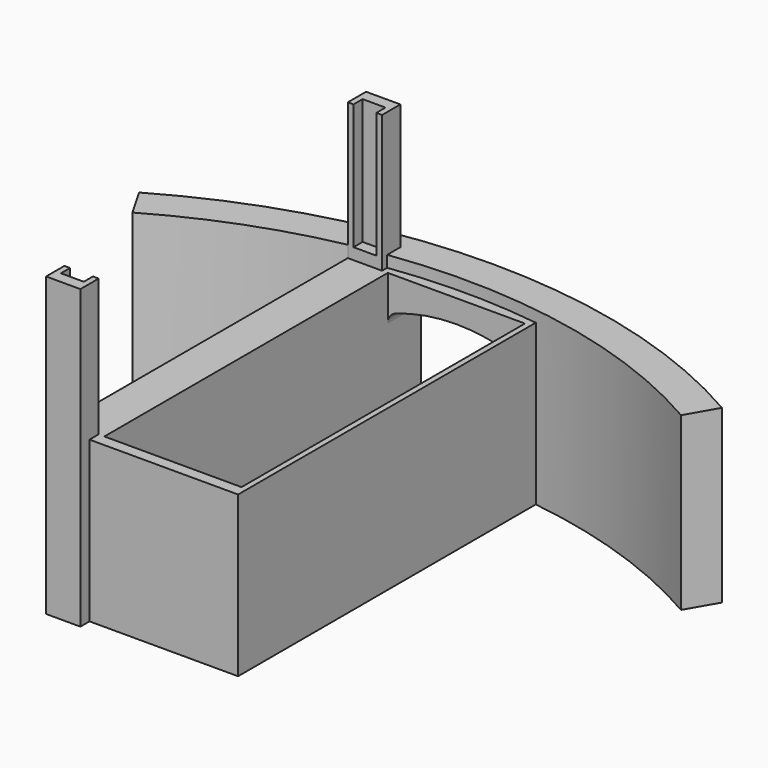
from build123d import *

# Parameters (mm, degrees)
BOX004_W                    = 3
BOX004_H                    = 31
BOX004_DEPTH                = 14
BOX003_W                    = 2
BOX003_H                    = 33
BOX003_DEPTH                = 11.2
BOX002_W                    = 3
BOX002_H                    = 35
BOX002_DEPTH                = 26
EXTRUDE_DEPTH               = 5
EXTRUDE001_DEPTH            = 5
THICKNESS_T                 = 1
BOX_W                       = 12
BOX_H                       = 31
BOX_DEPTH                   = 15
BOX001_W                    = 13
BOX001_H                    = 34
BOX001_DEPTH                = 14
CYLINDER001_W               = 48
CYLINDER001_H               = 15
CYLINDER001_ANGLE           = 60
CYLINDER001_PLACEMENT_ANGLE = 60
CYLINDER_W                  = 51
CYLINDER_H                  = 15
CYLINDER_ANGLE              = 60
CYLINDER_PLACEMENT_ANGLE    = 60


with BuildPart() as slot_wall_cutout2:
    # Box004 → Box004 (new body)
    with BuildSketch(Plane(origin=(-1, 7, 14), x_dir=(1, 0, 0), z_dir=(0, 0, 1))):
        with Locations((1.5, 15.5)):
            Rectangle(BOX004_W, BOX004_H)
    extrude(amount=BOX004_DEPTH)


with BuildPart() as slot_wall_cutout1:
    # Box003 → Box003 (new body)
    with BuildSketch(Plane(origin=(-0.5, 6, 15), x_dir=(1, 0, 0), z_dir=(0, 0, 1))):
        with Locations((1, 16.5)):
            Rectangle(BOX003_W, BOX003_H)
    extrude(amount=BOX003_DEPTH)


with BuildPart() as wall_slot_finished:
    # Box002 → Box002 (new body)
    with BuildSketch(Plane(origin=(-1, 5, 0), x_dir=(1, 0, 0), z_dir=(0, 0, 1))):
        with Locations((1.5, 17.5)):
            Rectangle(BOX002_W, BOX002_H)
    extrude(amount=BOX002_DEPTH)

    # Cut003: cut slot wall cutout1
    add(slot_wall_cutout1.part, mode=Mode.SUBTRACT)

    # Cut004: cut slot wall cutout2
    add(slot_wall_cutout2.part, mode=Mode.SUBTRACT)


with BuildPart() as extrude_body:
    with BuildSketch(Plane(origin=(8.5, 45, 6), x_dir=(1, 0, 0), z_dir=(0, 1, 0))):
        with BuildLine():
            Line((5, 4), (-5, 4))
            Line((-5, 4), (-5, -3.142136))
            ThreePointArc((-5, -3.142136), (-2.53653, -3.783978), (0, -4))
            ThreePointArc((0, -4), (2.53653, -3.783978), (5, -3.142136))
            Line((5, -3.142136), (5, 4))
        make_face()
    extrude(amount=EXTRUDE_DEPTH)


with BuildPart() as extrude001:
    with BuildSketch(Plane(origin=(8.5, 45, 6), x_dir=(1, 0, 0), z_dir=(0, 1, 0))):
        with BuildLine():
            Line((5, 4), (-5, 4))
            Line((-5, 4), (-5, -3.142136))
            ThreePointArc((-5, -3.142136), (-2.53653, -3.783978), (0, -4))
            ThreePointArc((0, -4), (2.53653, -3.783978), (5, -3.142136))
            Line((5, -3.142136), (5, 4))
        make_face()
    extrude(amount=EXTRUDE001_DEPTH)


with BuildPart() as bolt_bottle_side_opening:
    # Thickness base: copy of Extrude body
    add(extrude_body.part)

    # Thickness
    thickness_openings = [bolt_bottle_side_opening.faces().sort_by_distance(p)[0] for p in [
        (8.5, 50, 5.862901),
    ]]
    offset(amount=THICKNESS_T, openings=thickness_openings)

    # Fusion: union Extrude body, Extrude001
    add(extrude_body.part)
    add(extrude001.part)


with BuildPart() as bolt_bottle_side_opening_1:
    # Fusion placement: moved
    add(bolt_bottle_side_opening.part.moved(Location((0, -7, 1))))


with BuildPart() as pullbay:
    # Box → Box (new body)
    with BuildSketch(Plane(origin=(2.5, 7, 2), x_dir=(1, 0, 0), z_dir=(0, 0, 1))):
        with Locations((6, 15.5)):
            Rectangle(BOX_W, BOX_H)
    extrude(amount=BOX_DEPTH)


with BuildPart() as cut_bay_from_case:
    # Box001 → Box001 (new body)
    with BuildSketch(Plane(origin=(2, 6, 0), x_dir=(1, 0, 0), z_dir=(0, 0, 1))):
        with Locations((6.5, 17)):
            Rectangle(BOX001_W, BOX001_H)
    extrude(amount=BOX001_DEPTH)

    # Cut001: cut pullBay
    add(pullbay.part, mode=Mode.SUBTRACT)


with BuildPart() as bottle_wall001:
    # Cylinder001 → Cylinder001 (revolve)
    with BuildSketch(Plane.XZ):
        with Locations((24, 7.5)):
            Rectangle(CYLINDER001_W, CYLINDER001_H)
    revolve(axis=Axis((0, 0, 0), (0, 0, 1)), revolution_arc=CYLINDER001_ANGLE)


with BuildPart() as bottle_wall001_1:
    # Cylinder001 placement: moved
    add(bottle_wall001.part.moved(Location((8.5, -7, 0))).rotate(Axis((8.5, -7, 0), (0, 0, 1)), CYLINDER001_PLACEMENT_ANGLE))


with BuildPart() as fusion002:
    # Cylinder → Cylinder (revolve)
    with BuildSketch(Plane.XZ):
        with Locations((25.5, 7.5)):
            Rectangle(CYLINDER_W, CYLINDER_H)
    revolve(axis=Axis((0, 0, 0), (0, 0, 1)), revolution_arc=CYLINDER_ANGLE)


with BuildPart() as fusion002_1:
    # Cylinder placement: moved
    add(fusion002.part.moved(Location((8.5, -7, 0))).rotate(Axis((8.5, -7, 0), (0, 0, 1)), CYLINDER_PLACEMENT_ANGLE))

    # Cut: cut bottle_wall001
    add(bottle_wall001_1.part, mode=Mode.SUBTRACT)


with BuildPart() as fusion002_2:
    # Cut placement: moved
    add(fusion002_1.part.moved(Location((0, -2, 0))))

    # Fusion001: union cut bay from case
    add(cut_bay_from_case.part)

    # Cut002: cut bolt_bottle_side_opening
    add(bolt_bottle_side_opening_1.part, mode=Mode.SUBTRACT)

    # Fusion002: union wall slot finished
    add(wall_slot_finished.part)


solid = fusion002_2.part
